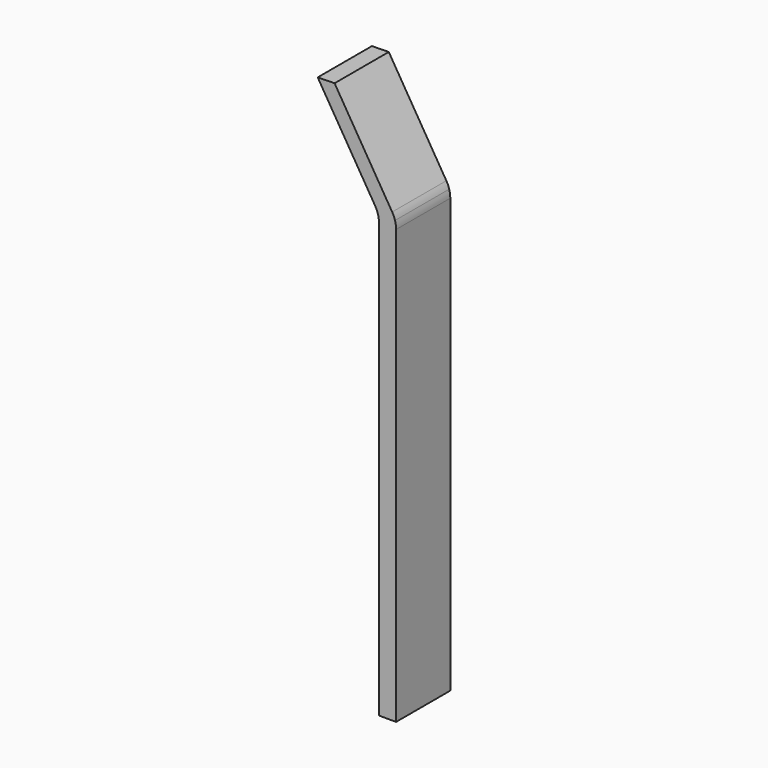
from build123d import *

# Parameters (mm, degrees)
F1_DEPTH = 25


with BuildPart() as f1:
    # F0 (on Front) → F1 (new body)
    with BuildSketch(Plane.XZ):
        with BuildLine():
            ThreePointArc((-1.457142, 165.198036), (-0.371174, 162.699206), (0, 160))
            Line((0, 160), (0, 0))
            Line((0, 0), (6.307421, 0))
            Line((6.307421, 0), (6.307421, 160))
            ThreePointArc((6.307421, 160), (6.206676, 161.415892), (5.906471, 162.803255))
            ThreePointArc((5.906471, 162.803255), (5.457063, 164.03535), (4.850279, 165.198036))
            Line((4.850279, 165.198036), (-16.398177, 200.119405))
            Line((-16.398177, 200.119405), (-22.632944, 200))
            Line((-22.632944, 200), (-1.457142, 165.198036))
        make_face()
    extrude(amount=F1_DEPTH)


solid = f1.part
